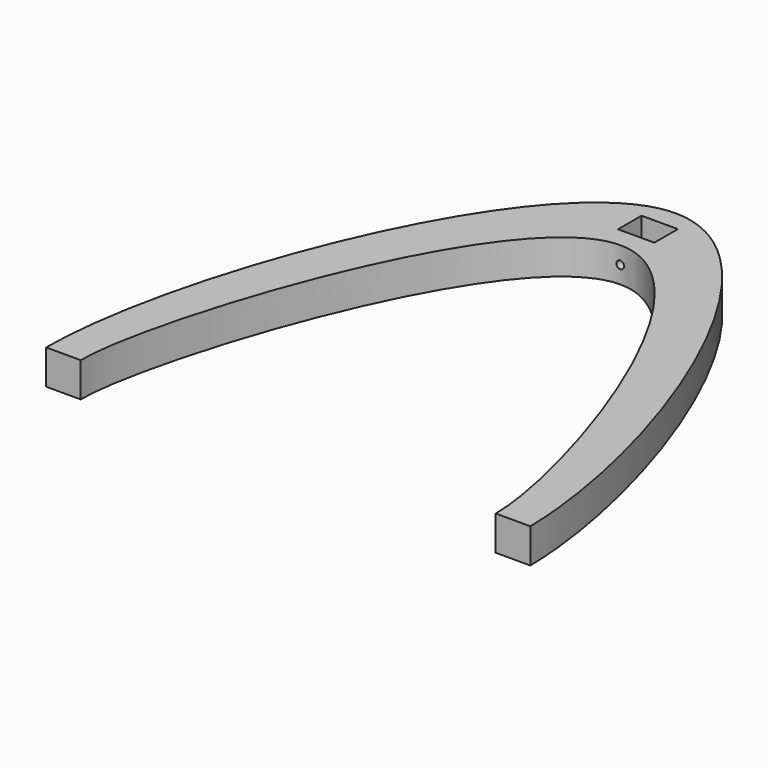
from build123d import *

# Parameters (mm, degrees)
F1_DEPTH = 10
F2_W     = 10.5
F2_H     = 8.5
F3_DEPTH = 10
F4_R     = 1.125
F5_DEPTH = 5.7948195458


with BuildPart() as f1:
    # F0 (on Top) → F1 (new body)
    with BuildSketch(Plane.XY):
        with BuildLine():
            add(Edge.make_bspline(
                [(-70, -120), (-69.9490740645, -72.2301395677), (0.3708027655, 112.2301395677), (69.2074685334, -72.2301395677), (70, -120)],
                knots=[0, 0, 0, 0, 0.5, 1, 1, 1, 1], degree=3))
            Line((-70, -120), (-60, -120))
            add(Edge.make_bspline(
                [(-60, -120), (-60.2770864151, -94.6751633451), (0.1071934019, 94.6751633451), (60.0626996113, -94.6751633451), (60, -120)],
                knots=[0, 0, 0, 0, 0.5, 1, 1, 1, 1], degree=3))
            Line((60, -120), (70, -120))
        make_face()
    extrude(amount=F1_DEPTH)

    # F2 (on face) → F3 (cut, through all)
    with BuildSketch(Plane.XY.offset(10)):
        with Locations((0, 10)):
            Rectangle(F2_W, F2_H)
    extrude(amount=-F3_DEPTH, mode=Mode.SUBTRACT)

    # F4 (on face) → F5 (cut, through all)
    with BuildSketch(Plane(origin=(0, 5.75, 0), x_dir=(-1, 0, 0), z_dir=(0, 1, 0))):
        with Locations((0, 5)):
            Circle(F4_R)
    extrude(amount=-F5_DEPTH, mode=Mode.SUBTRACT)


solid = f1.part
